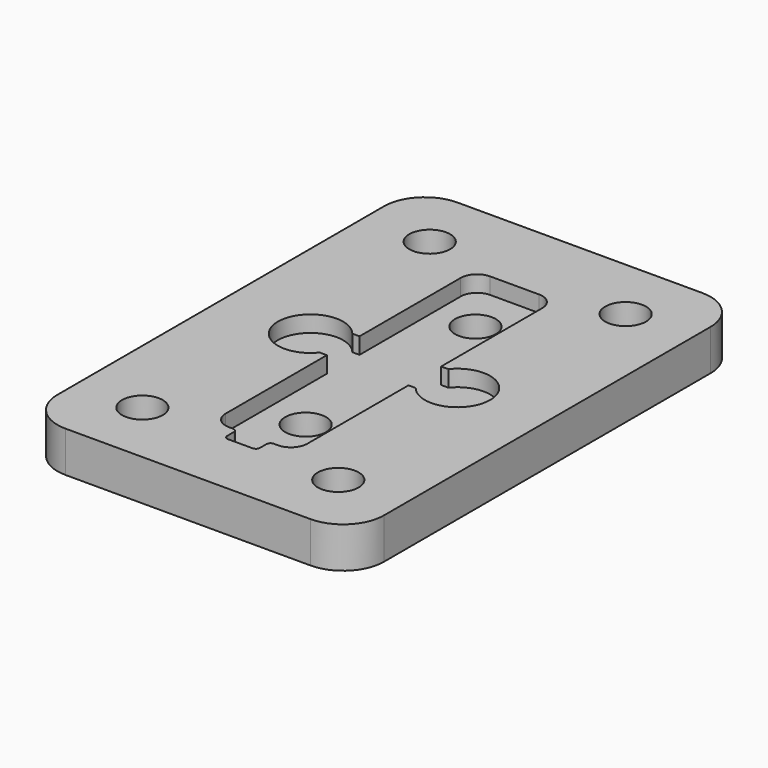
from build123d import *

# Parameters (mm, degrees)
SKETCH_W        = 40
SKETCH_H        = 60
PAD_DEPTH       = 5
SKETCH001_W     = 10
SKETCH001_H     = 40
POCKET_DEPTH    = 2
SKETCH002_R     = 4
POCKET001_DEPTH = 2
SKETCH003_W     = 15
SKETCH003_H     = 5
POCKET002_DEPTH = 2
SKETCH004_R     = 2.5
POCKET003_DEPTH = 5
SKETCH005_W     = 4
SKETCH005_H     = 4
POCKET004_DEPTH = 2
SKETCH006_R     = 2.5
POCKET005_DEPTH = 3
FILLET_R        = 2
FILLET001_R     = 0.5
SKETCH012_R     = 2.5
POCKET008_DEPTH = 5
FILLET005_R     = 5


with BuildPart() as part:
    # Sketch → Pad (new body)
    with BuildSketch(Plane.XY):
        Rectangle(SKETCH_W, SKETCH_H)
    extrude(amount=PAD_DEPTH)

    # Sketch001 (on Face6 of Pad) → Pocket (cut)
    with BuildSketch(Plane.XY.offset(5)):
        Rectangle(SKETCH001_W, SKETCH001_H)
    extrude(amount=-POCKET_DEPTH, mode=Mode.SUBTRACT)

    # Sketch002 (on Face5 of Pocket) → Pocket001 (cut)
    with BuildSketch(Plane.XY.offset(5)):
        with Locations((9, 0)):
            Circle(SKETCH002_R)
        with Locations((-9, 0)):
            Circle(SKETCH002_R)
    extrude(amount=-POCKET001_DEPTH, mode=Mode.SUBTRACT)

    # Sketch003 (on Face5 of Pocket001) → Pocket002 (cut)
    with BuildSketch(Plane.XY.offset(5)):
        Rectangle(SKETCH003_W, SKETCH003_H)
    extrude(amount=-POCKET002_DEPTH, mode=Mode.SUBTRACT)

    # Sketch004 (on Face22 of Pocket002) → Pocket003 (cut)
    with BuildSketch(Plane.XY.offset(3)):
        with Locations((0, -12)):
            Circle(SKETCH004_R)
    extrude(amount=-POCKET003_DEPTH, mode=Mode.SUBTRACT)

    # Sketch005 (on Face5 of Pocket003) → Pocket004 (cut)
    with BuildSketch(Plane.XY.offset(5)):
        with Locations((0, -20)):
            Rectangle(SKETCH005_W, SKETCH005_H)
    extrude(amount=-POCKET004_DEPTH, mode=Mode.SUBTRACT)

    # Sketch006 (on Face31 of Pocket004) → Pocket005 (cut)
    with BuildSketch(Plane.XY.offset(3)):
        with Locations((0, 14)):
            Circle(SKETCH006_R)
    extrude(amount=-POCKET005_DEPTH, mode=Mode.SUBTRACT)

    # Fillet
    fillet_edges = [part.edges().sort_by_distance(p)[0] for p in [
        (-5, 20, 4),
        (5, 20, 4),
        (-5, -20, 4),
        (5, -20, 4),
    ]]
    fillet(fillet_edges, radius=FILLET_R)

    # Fillet001
    fillet001_edges = [part.edges().sort_by_distance(p)[0] for p in [
        (-2, -22, 4),
        (2, -22, 4),
        (2, -20, 4),
        (-2, -20, 4),
    ]]
    fillet(fillet001_edges, radius=FILLET001_R)

    # Sketch012 (on Face1 of Fillet001) → Pocket008 (cut)
    with BuildSketch(Plane.XY.offset(5)):
        with Locations((-12, 22)):
            Circle(SKETCH012_R)
        with Locations((12, 22)):
            Circle(SKETCH012_R)
    pocket008 = extrude(amount=-POCKET008_DEPTH, mode=Mode.SUBTRACT)

    # Mirrored: Pocket008 across XZ
    add(pocket008.mirror(Plane.XZ), mode=Mode.SUBTRACT)

    # Fillet005
    fillet005_edges = [part.edges().sort_by_distance(p)[0] for p in [
        (-20, -30, 2.5),
        (20, -30, 2.5),
        (-20, 30, 2.5),
        (20, 30, 2.5),
    ]]
    fillet(fillet005_edges, radius=FILLET005_R)


solid = part.part
